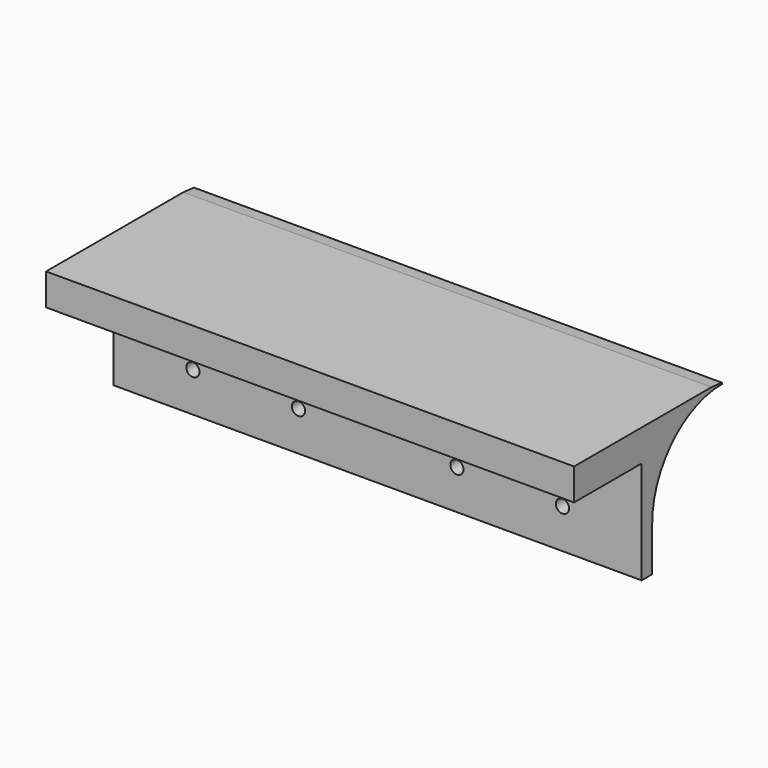
from build123d import *

# Parameters (mm, degrees)
F0_W      = 200
F0_H      = 50
F0_H_2    = 1
F1_DEPTH  = 70
F2_W      = 32
F2_H      = 39
F3_DEPTH  = 200
F5_DEPTH  = 200
F6_W      = 30
F6_H      = 9
F7_DEPTH  = 195
F8_DEPTH  = 5
F9_START  = -97.5
F9_DEPTH  = 5
F11_START = -5
F10_W     = 28.059584938
F10_H     = 30
F11_DEPTH = 92.5
F12_START = -102.5
F12_DEPTH = 92.5
F13_R     = 2.5
F14_DEPTH = 60
F15_R     = 0.5
F16_SIZE2 = 0.5
F16_SIZE  = 5


with BuildPart() as f1:
    # F0 (on Front) → F1 (new body)
    with BuildSketch(Plane.XZ):
        with Locations((-100, -25)):
            Rectangle(F0_W, F0_H)
        with Locations((-100, 0.5)):
            Rectangle(F0_W, F0_H_2)
    extrude(amount=F1_DEPTH)

    # F2 (on Right) → F3 (cut)
    with BuildSketch(Plane.YZ):
        with Locations((-54, -30.5)):
            Rectangle(F2_W, F2_H)
    extrude(amount=-F3_DEPTH, mode=Mode.SUBTRACT)

    # F4 (on Right) → F5 (cut)
    with BuildSketch(Plane.YZ):
        with BuildLine():
            Line((0, -50), (0, 0))
            ThreePointArc((0, 0), (-23.3345237792, -9.6654762208), (-33, -33))
            Line((-33, -33), (-33, -50))
            Line((-33, -50), (0, -50))
        make_face()
    extrude(amount=-F5_DEPTH, mode=Mode.SUBTRACT)

    # F6 (on Right) → F7 (cut)
    with BuildSketch(Plane.YZ):
        with Locations((-53, -6.5)):
            Rectangle(F6_W, F6_H)
    extrude(amount=-F7_DEPTH, mode=Mode.SUBTRACT)

    # F6 (on Right) → F8 (join)
    with BuildSketch(Plane.YZ):
        with Locations((-53, -6.5)):
            Rectangle(F6_W, F6_H)
    extrude(amount=-F8_DEPTH)

    # F6 (on Right) → F9 (join)
    with BuildSketch(Plane.YZ.offset(F9_START)):
        with Locations((-53, -6.5)):
            Rectangle(F6_W, F6_H)
    extrude(amount=-F9_DEPTH)

    # F10 (on Right) → F11 (cut)
    with BuildSketch(Plane.YZ.offset(F11_START)):
        with Locations((-18.970207531, -18)):
            Rectangle(F10_W, F10_H)
    extrude(amount=-F11_DEPTH, mode=Mode.SUBTRACT)

    # F10 (on Right) → F12 (cut)
    with BuildSketch(Plane.YZ.offset(F12_START)):
        with Locations((-18.970207531, -18)):
            Rectangle(F10_W, F10_H)
    extrude(amount=-F12_DEPTH, mode=Mode.SUBTRACT)

    # F13 (on Front) → F14 (cut)
    with BuildSketch(Plane.XZ):
        with Locations((-30, -35)):
            Circle(F13_R)
        with Locations((-70, -35)):
            Circle(F13_R)
        with Locations((-130, -35)):
            Circle(F13_R)
        with Locations((-170, -35)):
            Circle(F13_R)
    extrude(amount=F14_DEPTH, mode=Mode.SUBTRACT)

    # F15
    f15_edges = [f1.edges().sort_by_distance(p)[0] for p in [
        (-195, -23.373864, -3),
        (-148.75, -33, -3),
        (-195, -33, -18),
        (-97.5, -23.373864, -3),
        (-97.5, -33, -18),
        (-51.25, -33, -3),
        (-102.5, -33, -18),
        (-102.5, -23.373864, -3),
        (-5, -23.373864, -3),
        (-5, -33, -18),
        (-97.5, -53, -2),
        (-51.25, -38, -2),
        (-195, -53, -2),
        (-148.75, -38, -2),
        (-148.75, -68, -2),
        (-102.5, -53, -2),
        (-102.5, -68, -6.5),
        (-195, -68, -6.5),
        (-97.5, -68, -6.5),
        (-5, -68, -6.5),
        (-5, -53, -2),
        (-51.25, -68, -2),
        (-5, -38, -6.5),
        (-2.5, -38, -11),
        (-102.5, -38, -6.5),
        (-100, -38, -11),
        (-197.5, -38, -11),
        (-195, -38, -6.5),
        (-97.5, -38, -6.5),
    ]]
    fillet(f15_edges, radius=F15_R)

    # F16
    f16_edges = [f1.edges().sort_by_distance(p)[0] for p in [
        (-100, 0, 1),
    ]]
    f16_side = f1.faces().sort_by_distance((-100, -35, 1))[0]
    chamfer(f16_edges, length=F16_SIZE, length2=F16_SIZE2, reference=f16_side)


solid = f1.part
